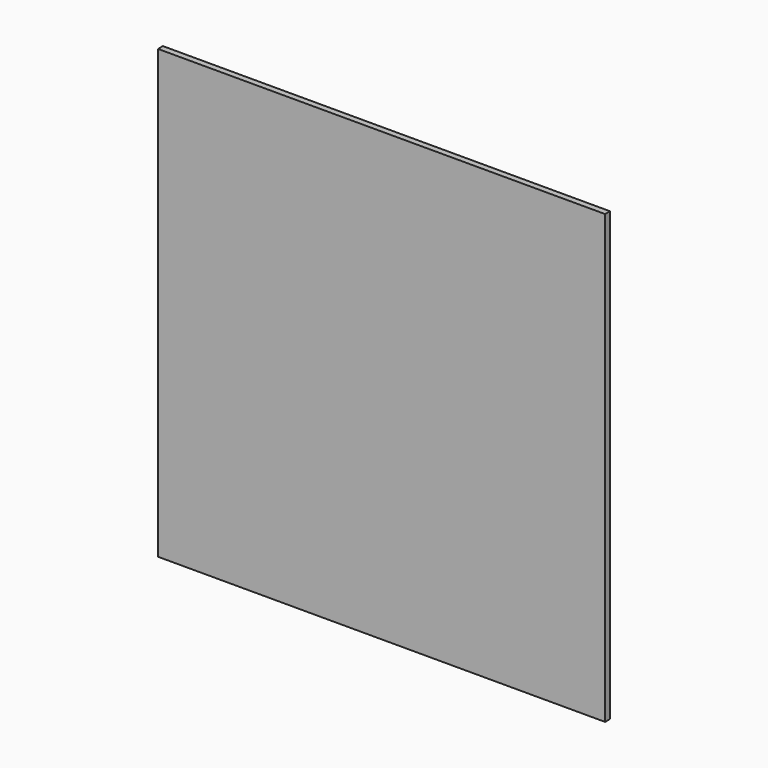
from build123d import *

# Parameters (mm, degrees)
F0_W     = 556.2346
F0_H     = 556.2346
F1_DEPTH = 12.7
F2_SIZE  = 5.08
F3_SIZE  = 5.08
F4_SIZE  = 5.08
F5_SIZE  = 5.08


with BuildPart() as f1:
    # F0 (on Front) → F1 (new body)
    with BuildSketch(Plane.XZ):
        with Locations((10.775876, 39.033592)):
            Rectangle(F0_W, F0_H)
    extrude(amount=F1_DEPTH)

    # F2
    f2_edges = [f1.edges().sort_by_distance(p)[0] for p in [
        (10.775876, 0, 317.150892),
    ]]
    chamfer(f2_edges, length=F2_SIZE)

    # F3
    f3_edges = [f1.edges().sort_by_distance(p)[0] for p in [
        (288.893176, 0, 36.493592),
    ]]
    chamfer(f3_edges, length=F3_SIZE)

    # F4
    f4_edges = [f1.edges().sort_by_distance(p)[0] for p in [
        (8.235876, 0, -239.083708),
    ]]
    chamfer(f4_edges, length=F4_SIZE)

    # F5
    f5_edges = [f1.edges().sort_by_distance(p)[0] for p in [
        (-267.341424, 0, 39.033592),
    ]]
    chamfer(f5_edges, length=F5_SIZE)


solid = f1.part
